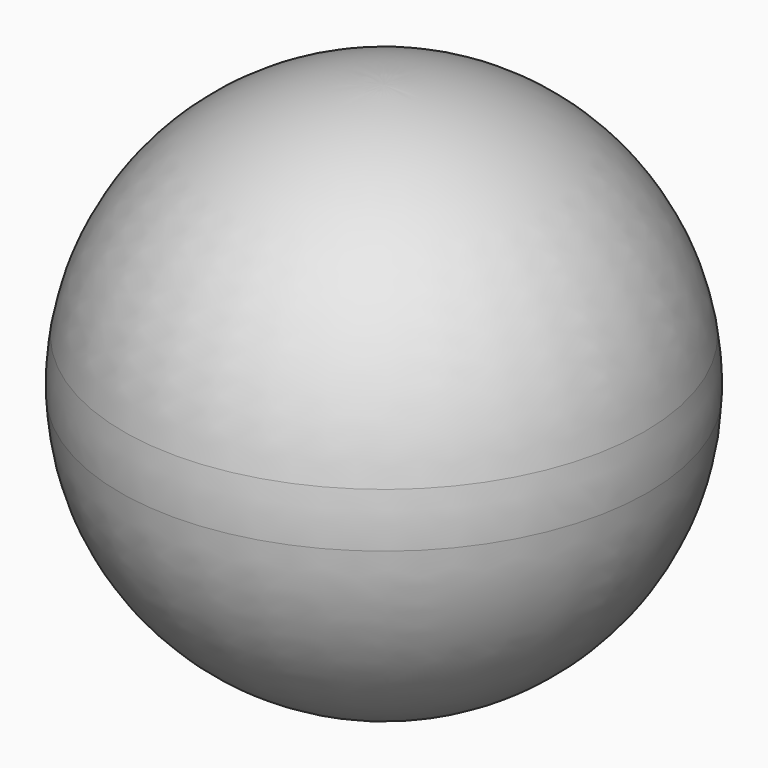
from build123d import *


with BuildPart() as f1:
    # F0 (on Front) → F1 (revolve)
    with BuildSketch(Plane.XZ):
        with BuildLine():
            Line((12.310787, 14.441778), (15.040473, 14.441778))
            ThreePointArc((15.040473, 14.441778), (15.020969, 15.946542), (14.850787, 17.441778))
            Line((14.850787, 17.441778), (12.310787, 17.441778))
            Line((12.310787, 17.441778), (12.310787, 14.441778))
        make_face()
        with BuildLine():
            Line((0, 30), (0, 0))
            ThreePointArc((0, 0), (10.439909, 4.180179), (15.040473, 14.441778))
            Line((15.040473, 14.441778), (12.310787, 14.441778))
            Line((12.310787, 14.441778), (12.310787, 17.441778))
            Line((12.310787, 17.441778), (14.850787, 17.441778))
            ThreePointArc((14.850787, 17.441778), (9.736447, 26.453837), (0, 30))
        make_face()
    revolve(axis=Axis((0, 0, 15), (0, 0, 1)))


solid = f1.part
